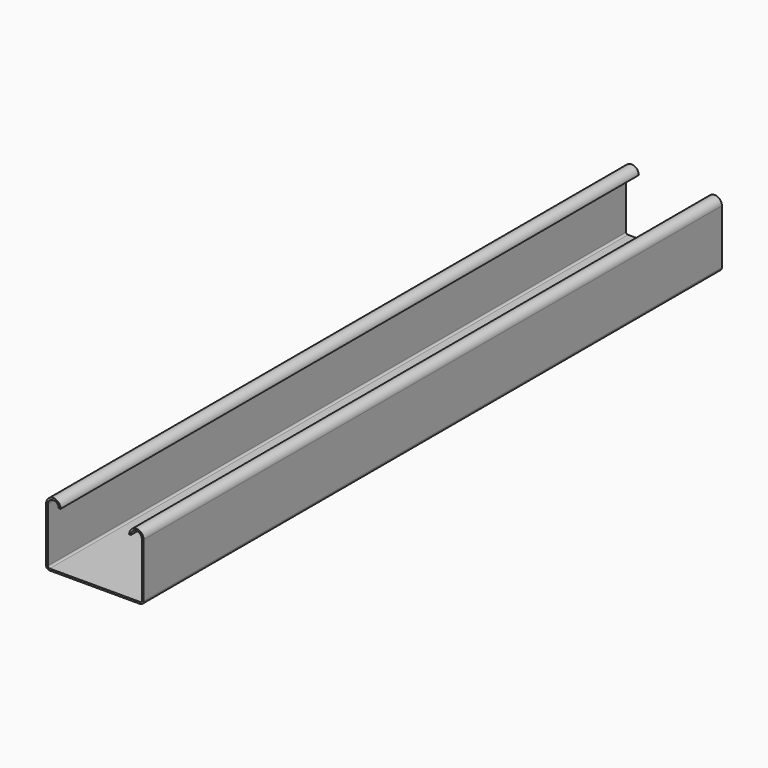
from build123d import *

# Parameters (mm, degrees)
F1_DEPTH      = 100
F1_DEPTH_BACK = 100
F2_R          = 1
F3_R          = 0.5


with BuildPart() as f1:
    # F0 (on Front) → F1 (new body, two sides)
    with BuildSketch(Plane.XZ) as f1_sk:
        with BuildLine():
            Line((-13.5, 7), (-13.5, -9))
            Line((-13.5, -9), (13.5, -9))
            Line((13.5, -9), (13.5, 7))
            ThreePointArc((13.5, 7), (11.5, 9), (9.5, 7))
            Line((9.5, 7), (10, 7))
            ThreePointArc((10, 7), (11.5, 8.5), (13, 7))
            Line((13, 7), (13, -8.5))
            Line((13, -8.5), (-13, -8.5))
            Line((-13, -8.5), (-13, 7))
            ThreePointArc((-13, 7), (-11.5, 8.5), (-10, 7))
            Line((-10, 7), (-9.5, 7))
            ThreePointArc((-9.5, 7), (-11.5, 9), (-13.5, 7))
        make_face()
    extrude(amount=F1_DEPTH)
    extrude(f1_sk.sketch, amount=-F1_DEPTH_BACK)

    # F2
    f2_edges = [f1.edges().sort_by_distance(p)[0] for p in [
        (13.5, 0, -9),
        (-13.5, 0, -9),
    ]]
    fillet(f2_edges, radius=F2_R)

    # F3
    f3_edges = [f1.edges().sort_by_distance(p)[0] for p in [
        (-13, 0, -8.5),
        (13, 0, -8.5),
    ]]
    fillet(f3_edges, radius=F3_R)


solid = f1.part
